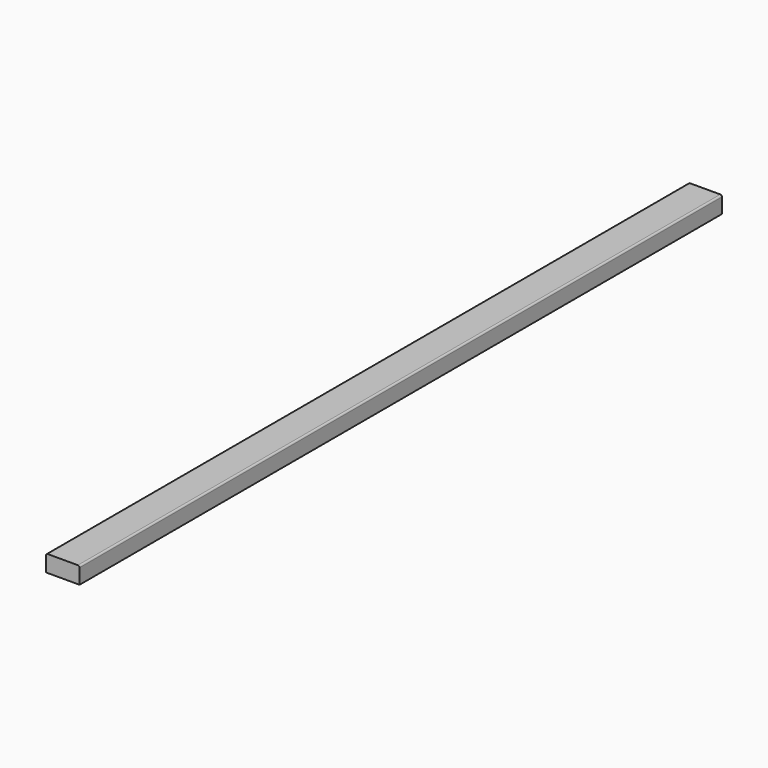
from build123d import *

# Parameters (mm, degrees)
F0_W     = 50.8
F0_H     = 50.8
F1_DEPTH = 304.8
F2_DEPTH = 12.7
F3_DEPTH = 12.7
F4_DEPTH = 304.8
F5_DEPTH = 304.8
F6_R     = 2.54


with BuildPart() as f1:
    # F0 (on Front) → F1 (new body, symmetric)
    with BuildSketch(Plane.XZ):
        Rectangle(F0_W, F0_H)
    extrude(amount=F1_DEPTH, both=True)

    # F2 (cut): a face of the model
    f2_faces = [f1.faces().sort_by_distance(p)[0] for p in [
        (0, 0, 25.4),
    ]]
    extrude(f2_faces, amount=-F2_DEPTH, mode=Mode.SUBTRACT)

    # F3 (cut): a face of the model
    f3_faces = [f1.faces().sort_by_distance(p)[0] for p in [
        (0, 0, -25.4),
    ]]
    extrude(f3_faces, amount=-F3_DEPTH, mode=Mode.SUBTRACT)

    # F4 (add): a face of the model
    f4_faces = [f1.faces().sort_by_distance(p)[0] for p in [
        (0, 304.8, 0),
    ]]
    extrude(f4_faces, amount=F4_DEPTH)

    # F5 (add): a face of the model
    f5_faces = [f1.faces().sort_by_distance(p)[0] for p in [
        (0, -304.8, 0),
    ]]
    extrude(f5_faces, amount=F5_DEPTH)

    # F6
    f6_edges = [f1.edges().sort_by_distance(p)[0] for p in [
        (-25.4, 0, 12.7),
        (25.4, 0, 12.7),
    ]]
    fillet(f6_edges, radius=F6_R)


solid = f1.part
